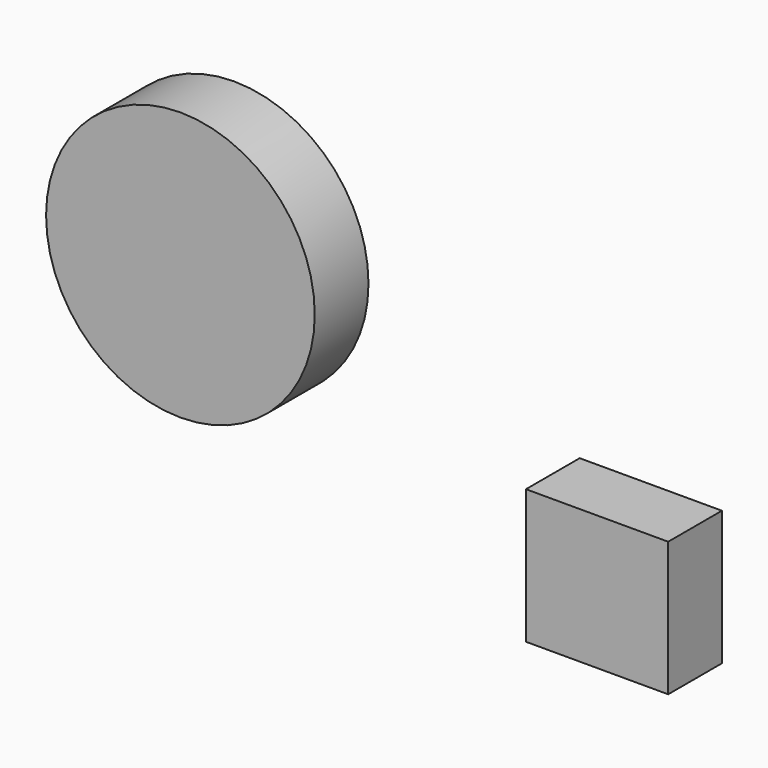
from build123d import *

# Parameters (mm, degrees)
F0_R     = 25.4
F0_R_2   = 22.225
F0_R_3   = 1.5875
F0_R_4   = 6.35
F0_W     = 26.890937
F0_H     = 25.4
F1_DEPTH = 12.7


with BuildPart() as f1:
    # F0 (on Front) → F1 (new body)
    with BuildSketch(Plane.XZ):
        with Locations((-39.200164, 13.350781)):
            Circle(F0_R)
        with Locations((-39.200164, 13.350781)):
            Circle(F0_R_2, mode=Mode.SUBTRACT)
        with Locations((-39.200164, 13.350781)):
            Circle(F0_R_2)
        with Locations((-38.063928, -5.018379)):
            Circle(F0_R_3, mode=Mode.SUBTRACT)
        with Locations((-58.705565, 13.161409)):
            Circle(F0_R_3, mode=Mode.SUBTRACT)
        with Locations((-39.200164, 13.350781)):
            Circle(F0_R_4, mode=Mode.SUBTRACT)
        with Locations((-21.209752, 14.297646)):
            Circle(F0_R_3, mode=Mode.SUBTRACT)
        with Locations((-39.578911, 31.719942)):
            Circle(F0_R_3, mode=Mode.SUBTRACT)
        with Locations((-58.705565, 13.161409)):
            Circle(F0_R_3)
        with Locations((-38.063928, -5.018379)):
            Circle(F0_R_3)
        with Locations((-21.209752, 14.297646)):
            Circle(F0_R_3)
        with Locations((-39.578911, 31.719942)):
            Circle(F0_R_3)
        with Locations((-39.200164, 13.350781)):
            Circle(F0_R_4)
        with Locations((39.578913, -15.421859)):
            Rectangle(F0_W, F0_H)
    extrude(amount=F1_DEPTH)


solid = f1.part
